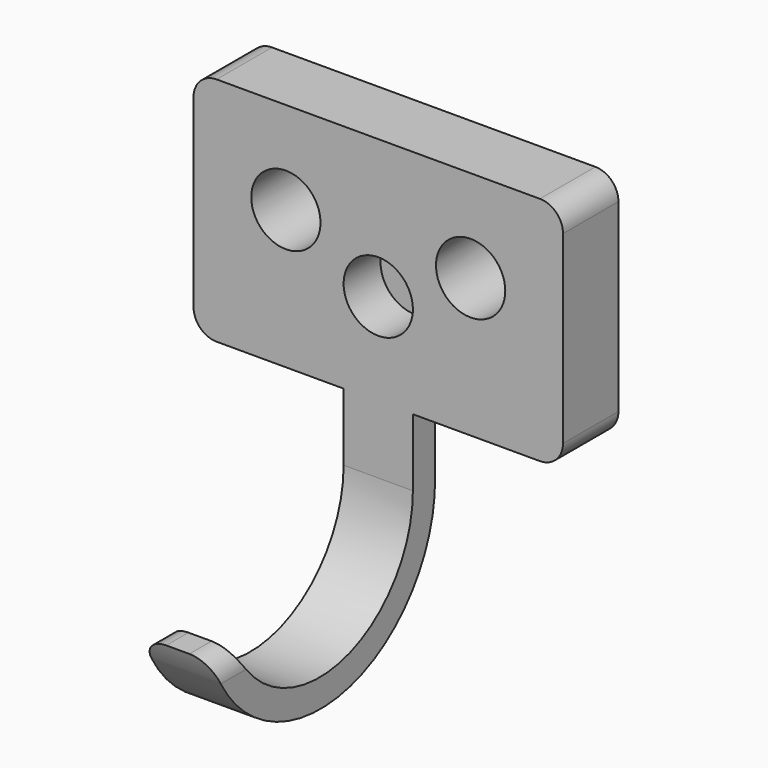
from build123d import *

# Parameters (mm, degrees)
F0_R     = 9.525
F1_DEPTH = 87.9602
F2_W     = 159.8871313035
F2_H     = 188.4720697999
F2_W_2   = 68.9102
F2_H_2   = 63.5
F3_DEPTH = 101.601
F4_R     = 6.35
F5_DEPTH = 87.9612001
F6_DEPTH = 6.35


with BuildPart() as f1:
    # F0 (on Front) → F1 (new body)
    with BuildSketch(Plane.XZ):
        Polygon((50.8, 31.75), (-50.8, 31.75), (-50.8, 6.35), (-50.8, -31.75), (-9.525, -31.75), (0, -31.75), (9.525, -31.75), (50.8, -31.75), (50.8, 6.35), align=None)
        with BuildLine():
            ThreePointArc((9.525, -6.35), (6.7351920908, -13.0851920908), (0, -15.875))
            ThreePointArc((0, -15.875), (-6.7351920908, 0.3851920908), (9.525, -6.35))
        make_face(mode=Mode.SUBTRACT)
        with BuildLine():
            ThreePointArc((-15.875, 6.35), (-25.4, -3.175), (-34.925, 6.35))
            ThreePointArc((-34.925, 6.35), (-25.4, 15.875), (-15.875, 6.35))
        make_face(mode=Mode.SUBTRACT)
        with Locations((25.4, 6.35)):
            Circle(F0_R, mode=Mode.SUBTRACT)
        Polygon((0, -31.75), (-9.525, -31.75), (-9.525, -120.0502738357), (9.525, -119.6629032493), (9.525, -31.75), align=None)
        with BuildLine():
            ThreePointArc((9.525, -6.35), (-6.7351920908, 0.3851920908), (0, -15.875))
            ThreePointArc((0, -15.875), (6.7351920908, -13.0851920908), (9.525, -6.35))
        make_face()
    extrude(amount=F1_DEPTH)

    # F2 (on face) → F3 (cut, through all)
    with BuildSketch(Plane.YZ.offset(50.8)):
        with Locations((-38.3915323764, -28.8357771933)):
            Rectangle(F2_W, F2_H)
        with BuildLine():
            Line((-19.05, 31.75), (0, 31.75))
            Line((0, 31.75), (0, -31.75))
            Line((0, -31.75), (-11.43, -31.75))
            Line((-11.43, -31.75), (-11.43, -50.292))
            ThreePointArc((-11.43, -50.292), (-43.9381582579, -89.604562418), (-87.9602, -63.8302))
            Line((-87.9602, -63.8302), (-87.9602, -31.75))
            Line((-87.9602, -31.75), (-87.9602, 31.75))
            Line((-87.9602, 31.75), (-19.05, 31.75))
        make_face(mode=Mode.SUBTRACT)
        with Locations((-53.5051, 0)):
            Rectangle(F2_W_2, F2_H_2)
        with BuildLine():
            Line((-19.05, -50.292), (-19.05, -31.75))
            Line((-19.05, -31.75), (-87.9602, -31.75))
            Line((-87.9602, -31.75), (-87.9602, -63.8302))
            Line((-87.9602, -63.8302), (-80.3402, -63.8302))
            ThreePointArc((-80.3402, -63.8302), (-44.2580362559, -81.6757994644), (-19.05, -50.292))
        make_face()
    extrude(amount=-F3_DEPTH, mode=Mode.SUBTRACT)

    # F4
    f4_edges = [f1.edges().sort_by_distance(p)[0] for p in [
        (-50.8, -9.525, 31.75),
        (50.8, -9.525, 31.75),
        (50.8, -9.525, -31.75),
        (-50.8, -9.525, -31.75),
        (-9.525, -84.1502, -63.8302),
        (9.525, -84.1502, -63.8302),
    ]]
    fillet(f4_edges, radius=F4_R)

    # F0 (on Front) → F5 (cut, through all)
    with BuildSketch(Plane.XZ):
        with BuildLine():
            ThreePointArc((9.525, -6.35), (-6.7351920908, 0.3851920908), (0, -15.875))
            ThreePointArc((0, -15.875), (6.7351920908, -13.0851920908), (9.525, -6.35))
        make_face()
    extrude(amount=F5_DEPTH, mode=Mode.SUBTRACT)

    # F0 (on Front) → F6 (join)
    with BuildSketch(Plane.XZ):
        with BuildLine():
            ThreePointArc((9.525, -6.35), (-6.7351920908, 0.3851920908), (0, -15.875))
            ThreePointArc((0, -15.875), (6.7351920908, -13.0851920908), (9.525, -6.35))
        make_face()
    extrude(amount=F6_DEPTH)


solid = f1.part
